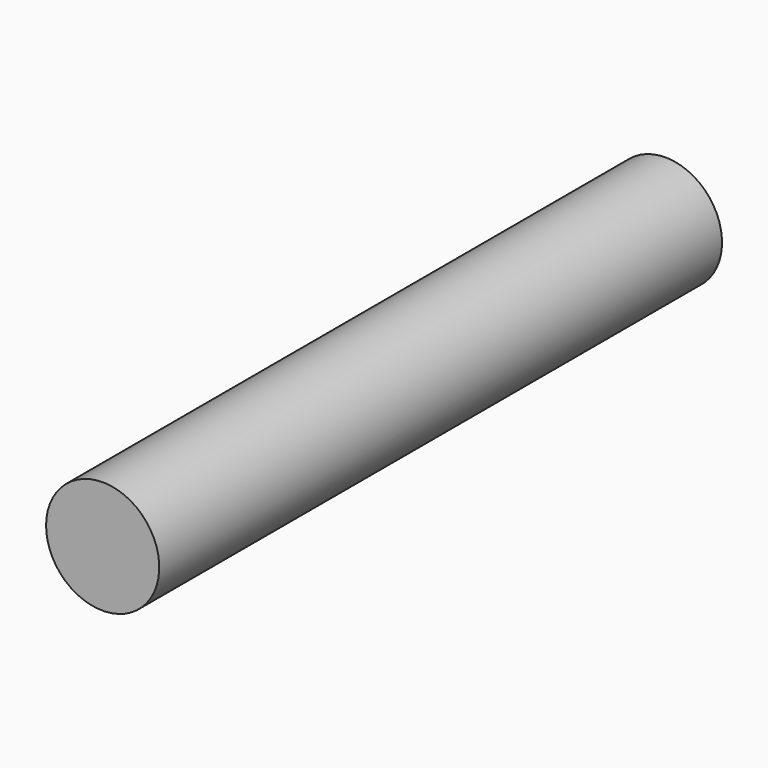
from build123d import *

# Parameters (mm, degrees)
F0_W = 20.2554091811
F0_H = 251.8089041114
F2_T = -2.54


with BuildPart() as f1:
    # F0 (on Top) → F1 (revolve)
    with BuildSketch(Plane.XY):
        with Locations((-49.5860390365, 9.5695741475)):
            Rectangle(F0_W, F0_H)
    revolve(axis=Axis((-39.458334446, 9.5695741475, 0), (0, -1, 0)))

    # F2
    f2_openings = [f1.faces().sort_by_distance(p)[0] for p in [
        (-39.458334, 135.474026, 0),
    ]]
    offset(amount=F2_T, openings=f2_openings)


solid = f1.part
